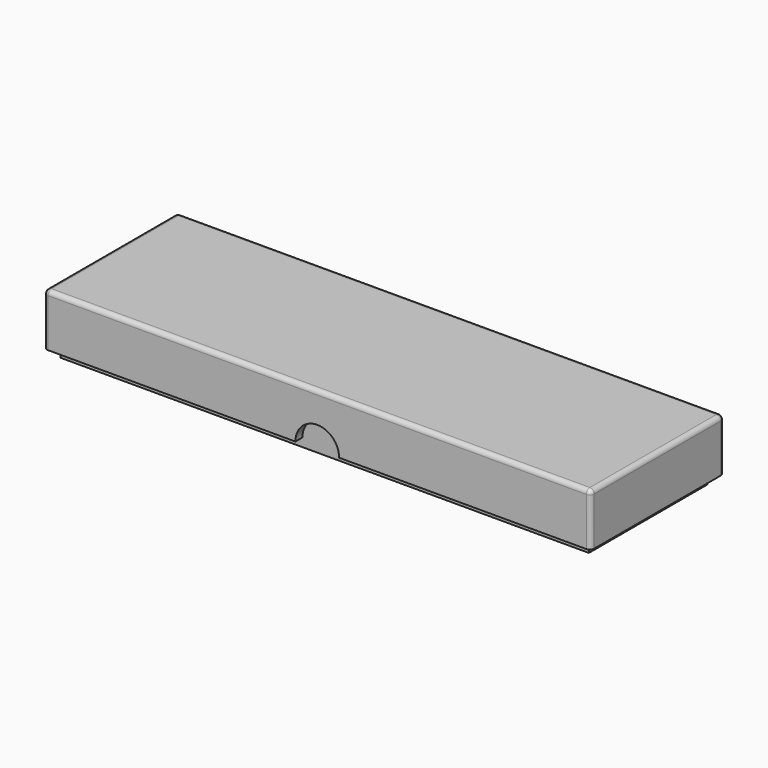
from build123d import *

# Parameters (mm, degrees)
F0_W     = 121
F0_H     = 34
F0_W_2   = 15
F0_H_2   = 30
F1_DEPTH = 10
F2_DEPTH = 2
F3_W     = 125.2
F3_H     = 38.2
F3_W_2   = 121.2
F3_H_2   = 34.2
F3_W_3   = 121
F3_H_3   = 34
F3_W_4   = 15
F3_H_4   = 30
F4_DEPTH = 2
F5_DEPTH = 10
F6_R     = 1
F8_DEPTH = 38.201


with BuildPart() as f1:
    # F0 (on Top) → F1 (new body)
    with BuildSketch(Plane.XY):
        with Locations((58.5, 15)):
            Rectangle(F0_W, F0_H)
        with Locations((7.5, 15)):
            Rectangle(F0_W_2, F0_H_2, mode=Mode.SUBTRACT)
        with Locations((24.5, 15)):
            Rectangle(F0_W_2, F0_H_2, mode=Mode.SUBTRACT)
        with Locations((41.5, 15)):
            Rectangle(F0_W_2, F0_H_2, mode=Mode.SUBTRACT)
        with Locations((58.5, 15)):
            Rectangle(F0_W_2, F0_H_2, mode=Mode.SUBTRACT)
        with Locations((75.5, 15)):
            Rectangle(F0_W_2, F0_H_2, mode=Mode.SUBTRACT)
        with Locations((92.5, 15)):
            Rectangle(F0_W_2, F0_H_2, mode=Mode.SUBTRACT)
        with Locations((109.5, 15)):
            Rectangle(F0_W_2, F0_H_2, mode=Mode.SUBTRACT)
    extrude(amount=F1_DEPTH)

    # F0 (on Top) → F2 (join)
    with BuildSketch(Plane.XY):
        with Locations((58.5, 15)):
            Rectangle(F0_W, F0_H)
        with Locations((7.5, 15)):
            Rectangle(F0_W_2, F0_H_2, mode=Mode.SUBTRACT)
        with Locations((24.5, 15)):
            Rectangle(F0_W_2, F0_H_2, mode=Mode.SUBTRACT)
        with Locations((41.5, 15)):
            Rectangle(F0_W_2, F0_H_2, mode=Mode.SUBTRACT)
        with Locations((58.5, 15)):
            Rectangle(F0_W_2, F0_H_2, mode=Mode.SUBTRACT)
        with Locations((75.5, 15)):
            Rectangle(F0_W_2, F0_H_2, mode=Mode.SUBTRACT)
        with Locations((92.5, 15)):
            Rectangle(F0_W_2, F0_H_2, mode=Mode.SUBTRACT)
        with Locations((109.5, 15)):
            Rectangle(F0_W_2, F0_H_2, mode=Mode.SUBTRACT)
        with Locations((7.5, 15)):
            Rectangle(F0_W_2, F0_H_2)
        with Locations((24.5, 15)):
            Rectangle(F0_W_2, F0_H_2)
        with Locations((41.5, 15)):
            Rectangle(F0_W_2, F0_H_2)
        with Locations((58.5, 15)):
            Rectangle(F0_W_2, F0_H_2)
        with Locations((75.5, 15)):
            Rectangle(F0_W_2, F0_H_2)
        with Locations((92.5, 15)):
            Rectangle(F0_W_2, F0_H_2)
        with Locations((109.5, 15)):
            Rectangle(F0_W_2, F0_H_2)
    extrude(amount=-F2_DEPTH)


with BuildPart() as f4:
    # F3 (on face) → F4 (new body)
    with BuildSketch(Plane.XY.offset(10)):
        with Locations((58.5, 15)):
            Rectangle(F3_W, F3_H)
        with Locations((58.5, 15)):
            Rectangle(F3_W_2, F3_H_2, mode=Mode.SUBTRACT)
        with Locations((58.5, 15)):
            Rectangle(F3_W_2, F3_H_2)
        with Locations((58.5, 15)):
            Rectangle(F3_W_3, F3_H_3, mode=Mode.SUBTRACT)
        with Locations((58.5, 15)):
            Rectangle(F3_W_3, F3_H_3)
        with Locations((7.5, 15)):
            Rectangle(F3_W_4, F3_H_4, mode=Mode.SUBTRACT)
        with Locations((24.5, 15)):
            Rectangle(F3_W_4, F3_H_4, mode=Mode.SUBTRACT)
        with Locations((41.5, 15)):
            Rectangle(F3_W_4, F3_H_4, mode=Mode.SUBTRACT)
        with Locations((58.5, 15)):
            Rectangle(F3_W_4, F3_H_4, mode=Mode.SUBTRACT)
        with Locations((75.5, 15)):
            Rectangle(F3_W_4, F3_H_4, mode=Mode.SUBTRACT)
        with Locations((92.5, 15)):
            Rectangle(F3_W_4, F3_H_4, mode=Mode.SUBTRACT)
        with Locations((109.5, 15)):
            Rectangle(F3_W_4, F3_H_4, mode=Mode.SUBTRACT)
        with Locations((24.5, 15)):
            Rectangle(F3_W_4, F3_H_4)
        with Locations((7.5, 15)):
            Rectangle(F3_W_4, F3_H_4)
        with Locations((41.5, 15)):
            Rectangle(F3_W_4, F3_H_4)
        with Locations((58.5, 15)):
            Rectangle(F3_W_4, F3_H_4)
        with Locations((75.5, 15)):
            Rectangle(F3_W_4, F3_H_4)
        with Locations((92.5, 15)):
            Rectangle(F3_W_4, F3_H_4)
        with Locations((109.5, 15)):
            Rectangle(F3_W_4, F3_H_4)
    extrude(amount=F4_DEPTH)

    # F3 (on face) → F5 (join)
    with BuildSketch(Plane.XY.offset(10)):
        with Locations((58.5, 15)):
            Rectangle(F3_W, F3_H)
        with Locations((58.5, 15)):
            Rectangle(F3_W_2, F3_H_2, mode=Mode.SUBTRACT)
    extrude(amount=-F5_DEPTH)

    # F6
    f6_edges = [f4.edges().sort_by_distance(p)[0] for p in [
        (58.5, 34.1, 12),
        (-4.1, 15, 12),
        (58.5, -4.1, 12),
        (121.1, 15, 12),
        (-4.1, -4.1, 6),
        (121.1, -4.1, 6),
        (121.1, 34.1, 6),
        (-4.1, 34.1, 6),
    ]]
    fillet(f6_edges, radius=F6_R)

    # F7 (on face) → F8 (cut, through all)
    with BuildSketch(Plane.XZ.offset(4.1)):
        with BuildLine():
            Line((53.5, 0), (63.5, 0))
            ThreePointArc((63.5, 0), (58.5, 5), (53.5, 0))
        make_face()
    extrude(amount=-F8_DEPTH, mode=Mode.SUBTRACT)


solid = Compound([f1.part, f4.part])
